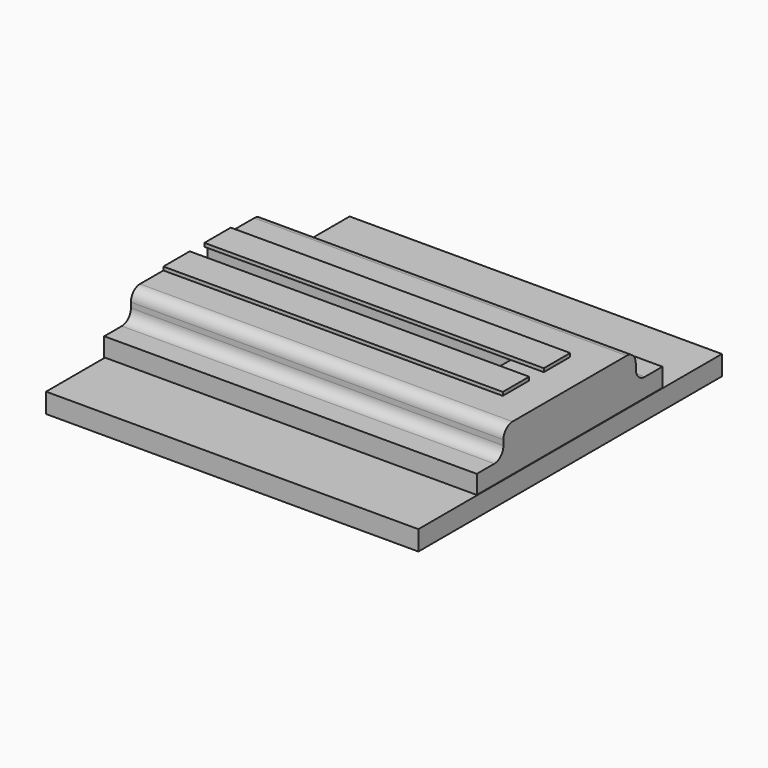
from build123d import *

# Parameters (mm, degrees)
F0_W      = 57.1
F0_H      = 20
F1_DEPTH  = 3.3
F2_W      = 57.1
F2_H      = 14.253388
F3_DEPTH  = 2.4
F4_R      = 0.976
F5_W      = 2.221158
F5_H      = 4.363652
F6_DEPTH  = 51.4
F7_W      = 54.248591
F7_H      = 2.840603
F8_DEPTH  = 0.3
F9_W      = 1.6
F9_H      = 2
F10_DEPTH = 1.25
F12_DEPTH = 1.25
F13_W     = 20.793454
F13_H     = 7.292897
F14_DEPTH = 25
F15_W     = 32.082847
F15_H     = 32.694116
F16_DEPTH = 1.7


with BuildPart() as f1:
    # F0 (on Top) → F1 (new body)
    with BuildSketch(Plane.XY):
        Rectangle(F0_W, F0_H)
    extrude(amount=F1_DEPTH)

    # F2 (on face) → F3 (join)
    with BuildSketch(Plane.XY.offset(3.3)):
        Rectangle(F2_W, F2_H)
    extrude(amount=F3_DEPTH)

    # F4
    f4_edges = [f1.edges().sort_by_distance(p)[0] for p in [
        (0, -7.126694, 3.3),
        (0, 7.126694, 3.3),
        (0, 7.126694, 5.7),
        (0, -7.126694, 5.7),
    ]]
    fillet(f4_edges, radius=F4_R)

    # F5 (on face) → F6 (cut)
    with BuildSketch(Plane(origin=(-28.55, 0, 0), x_dir=(0, -1, 0), z_dir=(-1, 0, 0))):
        with Locations((0, 5.7)):
            Rectangle(F5_W, F5_H)
    extrude(amount=-F6_DEPTH, mode=Mode.SUBTRACT)

    # F7 (on face) → F8 (join)
    with BuildSketch(Plane.XY.offset(5.7)):
        with Locations((-1.425704, 2.210335)):
            Rectangle(F7_W, F7_H)
        Polygon((25.698591, 3.630636), (-28.55, 3.630636), (-28.55, 1.110579), (-28.55, 0.790033), (25.698591, 0.790033), align=None)
        Polygon((25.698591, -0.790033), (-28.55, -0.790033), (-28.55, -1.110579), (-28.55, -3.630636), (25.698591, -3.630636), align=None)
        Polygon((25.698591, -0.790033), (-28.55, -0.790033), (-28.55, -1.110579), (-28.55, -3.630636), (25.698591, -3.630636), align=None)
    extrude(amount=F8_DEPTH)

    # F9 (on face) → F10 (cut)
    with BuildSketch(Plane.XY.offset(6)):
        with Locations((-17.431669, -1.790033)):
            Rectangle(F9_W, F9_H)
    extrude(amount=-F10_DEPTH, mode=Mode.SUBTRACT)

    # F11 (on face) → F12 (cut)
    with BuildSketch(Plane.XY.offset(6)):
        with BuildLine():
            Line((-16.631669, -2.790033), (-18.231669, -2.790033))
            ThreePointArc((-18.231669, -2.790033), (-17.431669, -3.396082), (-16.631669, -2.790033))
        make_face()
    extrude(amount=-F12_DEPTH, mode=Mode.SUBTRACT)

    # F13 (on face) → F14 (cut)
    with BuildSketch(Plane(origin=(-28.55, 0, 0), x_dir=(0, -1, 0), z_dir=(-1, 0, 0))):
        with Locations((0, 2.663676)):
            Rectangle(F13_W, F13_H)
    extrude(amount=-F14_DEPTH, mode=Mode.SUBTRACT)

    # F15 (on Top) → F16 (join)
    with BuildSketch(Plane.XY):
        with Locations((12.557171, 0)):
            Rectangle(F15_W, F15_H)
    extrude(amount=F16_DEPTH)


solid = f1.part
